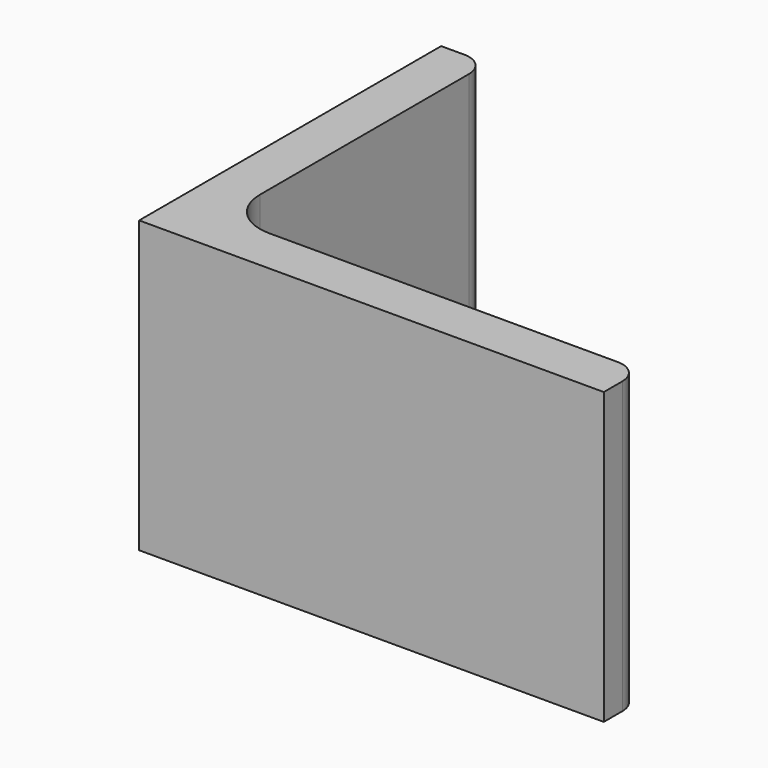
from build123d import *

# Parameters (mm, degrees)
EXTRUDE_DEPTH = 50


with BuildPart() as part:
    # Sketch → Extrude (new body)
    with BuildSketch(Plane.XY):
        with BuildLine():
            Line((0, 0), (80, 0))
            Line((80, 0), (80, 4))
            ThreePointArc((80, 4), (78.828427, 6.828427), (76, 8))
            Line((76, 8), (16, 8))
            ThreePointArc((8, 16), (10.343146, 10.343146), (16, 8))
            Line((8, 61), (8, 16))
            ThreePointArc((8, 61), (6.828427, 63.828427), (4, 65))
            Line((0, 65), (4, 65))
            Line((0, 0), (0, 65))
        make_face()
    extrude(amount=EXTRUDE_DEPTH)


solid = part.part
